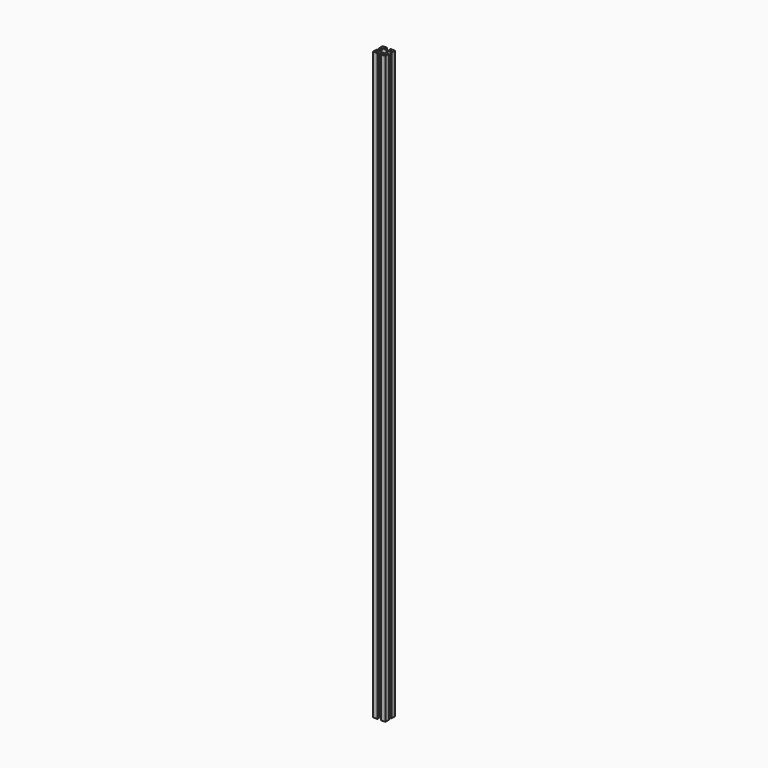
from build123d import *

# Parameters (mm, degrees)
PAD_DEPTH    = 1200
SKETCH001_R  = 2
POCKET_DEPTH = 5.251


with BuildPart() as change_me_for_height:
    # Sketch → Pad (new body)
    with BuildSketch(Plane.XY):
        Polygon((-12.5, 3), (-12.5, 12.25), (-3.25, 12.25), (-3.25, 10.25), (-7.25, 10.25), (-7.25, 8.25), (-3.25, 5), (3.25, 5), (7.25, 8.25), (7.25, 10.25), (3.25, 10.25), (3.25, 12.25), (12.5, 12.25), (12.5, 3), (10.5, 3), (10.5, 7), (8.5, 7), (4.964466, 3.25), (4.964466, 0), (-4.964466, 0), (-4.964466, 3.25), (-8.5, 7), (-10.5, 7), (-10.5, 3), align=None)
    pad = extrude(amount=PAD_DEPTH)


with BuildPart() as mirrored:
    # Mirrored base: copy of Change_me_for_height
    add(change_me_for_height.part)

    # Mirrored: Pad across Sketch H_Axis
    add(pad.mirror(Plane.ZX))


with BuildPart() as pocket:
    # Fusion base: copy of Change_me_for_height
    add(change_me_for_height.part)

    # Fusion: union Mirrored
    add(mirrored.part)

    # Sketch001 → Pocket (cut, through all)
    with BuildSketch(Plane.XZ.offset(-7)):
        Circle(SKETCH001_R)
    extrude(amount=-POCKET_DEPTH, mode=Mode.SUBTRACT)


solid = pocket.part
